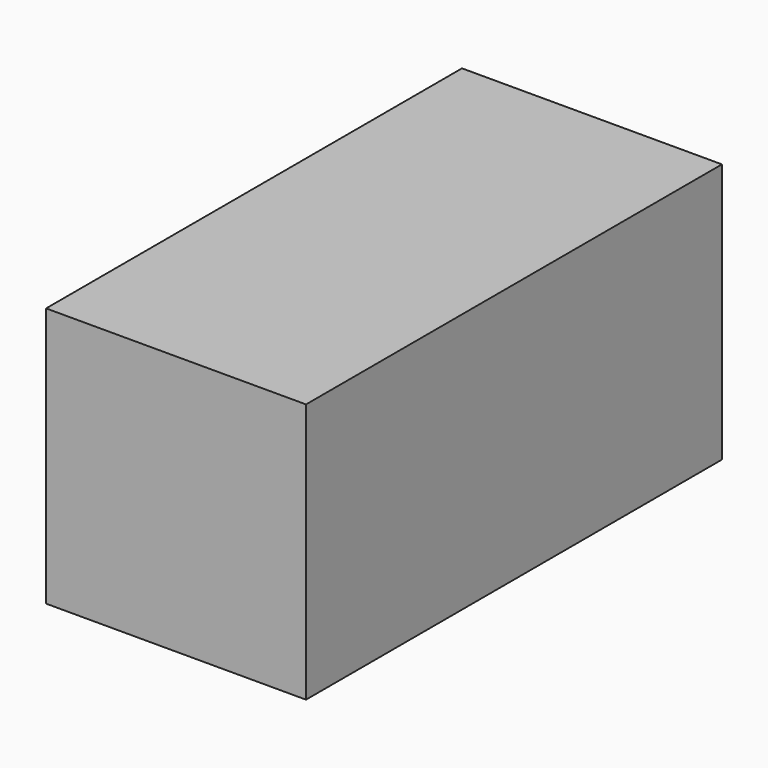
from build123d import *

# Parameters (mm, degrees)
F0_W      = 25
F0_H      = 25
F1_DEPTH  = 12.5
F1_FACE_W = 25
F1_FACE_H = 25
F2_DEPTH  = 25


with BuildPart() as f1:
    # F0 (on Top) → F1 (new body, symmetric)
    with BuildSketch(Plane.XY):
        Rectangle(F0_W, F0_H)
    extrude(amount=F1_DEPTH, both=True)

    # F1_face (on face) → F2 (join)
    with BuildSketch(Plane.XZ.offset(12.5)):
        Rectangle(F1_FACE_W, F1_FACE_H)
    extrude(amount=F2_DEPTH)


solid = f1.part
